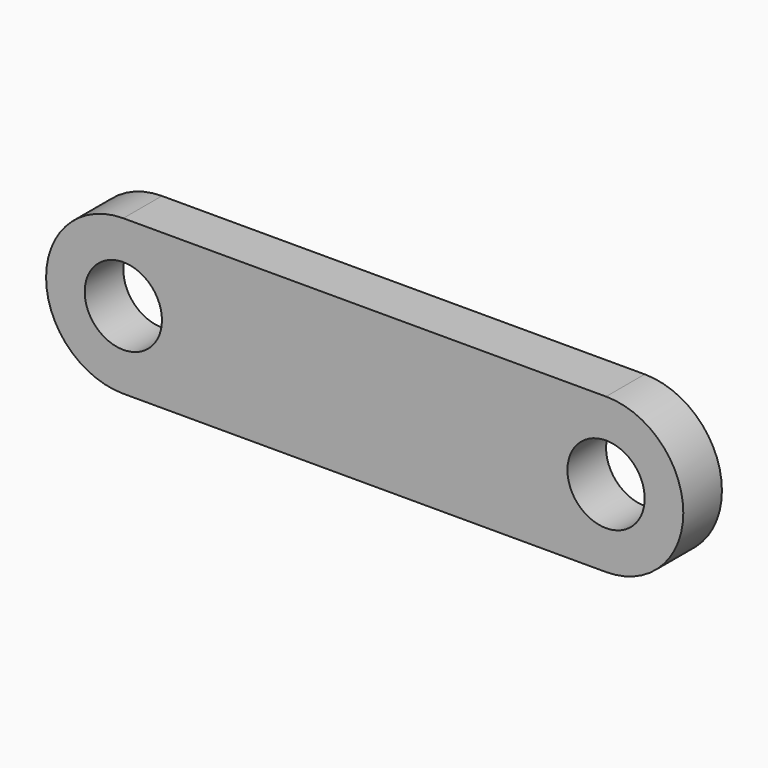
from build123d import *

# Parameters (mm, degrees)
F0_R     = 4
F1_DEPTH = 2.5


with BuildPart() as f1:
    # F0 (on Front) → F1 (new body, symmetric)
    with BuildSketch(Plane.XZ):
        with BuildLine():
            Line((0, 8.455922), (-25, 8.455922))
            ThreePointArc((-25, 8.455922), (-33, 0.455922), (-25, -7.544078))
            Line((-25, -7.544078), (0, -7.544078))
            Line((0, -7.544078), (0, 8.455922))
        make_face()
        with Locations((-25, 0.455922)):
            Circle(F0_R, mode=Mode.SUBTRACT)
    extrude(amount=F1_DEPTH, both=True)

    # F2: F1 across face


with BuildPart() as f1_1:
    add(f1.part)
    add(f1.part.mirror(Plane(origin=(0, 0, 0.455922), x_dir=(0, 1, 0), z_dir=(1, 0, 0))))


solid = f1_1.part
